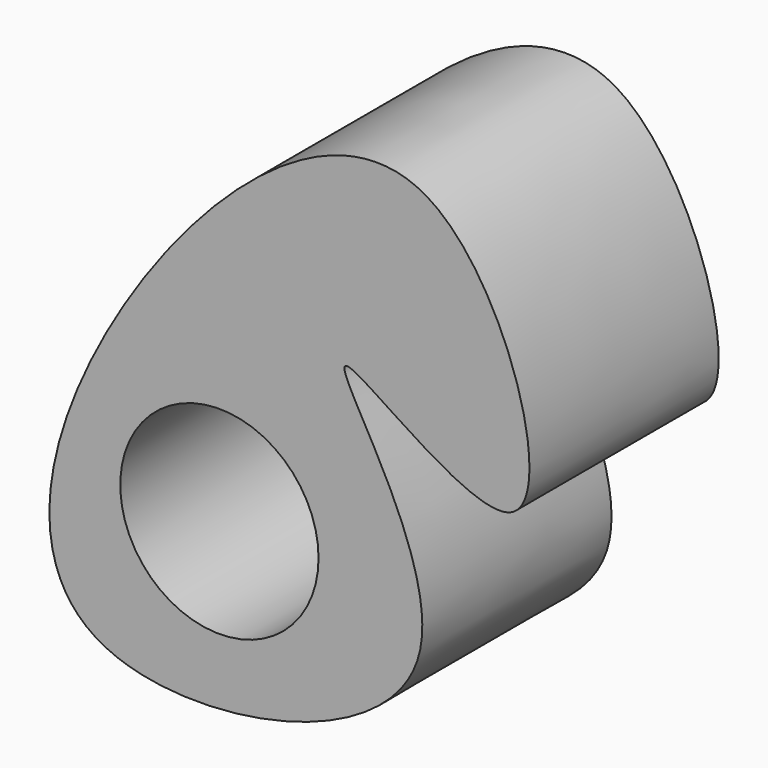
from build123d import *

# Parameters (mm, degrees)
F1_DEPTH = 50.8
F2_R     = 21.2932659317
F3_DEPTH = 50.8010001


with BuildPart() as f1:
    # F0 (on Front) → F1 (new body)
    with BuildSketch(Plane.XZ):
        with BuildLine():
            add(Edge.make_bspline(
                [(-51.5474118292, 15.6410392374), (-65.504904608, -9.5159000694), (-73.9622543943, -61.2203994729), (48.2082876269, -38.0241858018), (-24.0793810112, 50.5930663902), (55.0299405607, -18.4156494046), (21.2168560737, 101.7248654083), (-34.8984226809, 45.6491227925), (-51.5474118292, 15.6410392374)],
                knots=[0, 0, 0, 0, 0.1661509409, 0.3487521193, 0.5038891945, 0.6386240338, 0.8018093038, 1, 1, 1, 1], degree=3))
        make_face()
    extrude(amount=F1_DEPTH)

    # F2 (on face) → F3 (cut, through all)
    with BuildSketch(Plane.XZ.offset(50.8)):
        with Locations((-27.1918941289, -12.0667787269)):
            Circle(F2_R)
    extrude(amount=-F3_DEPTH, mode=Mode.SUBTRACT)


solid = f1.part
